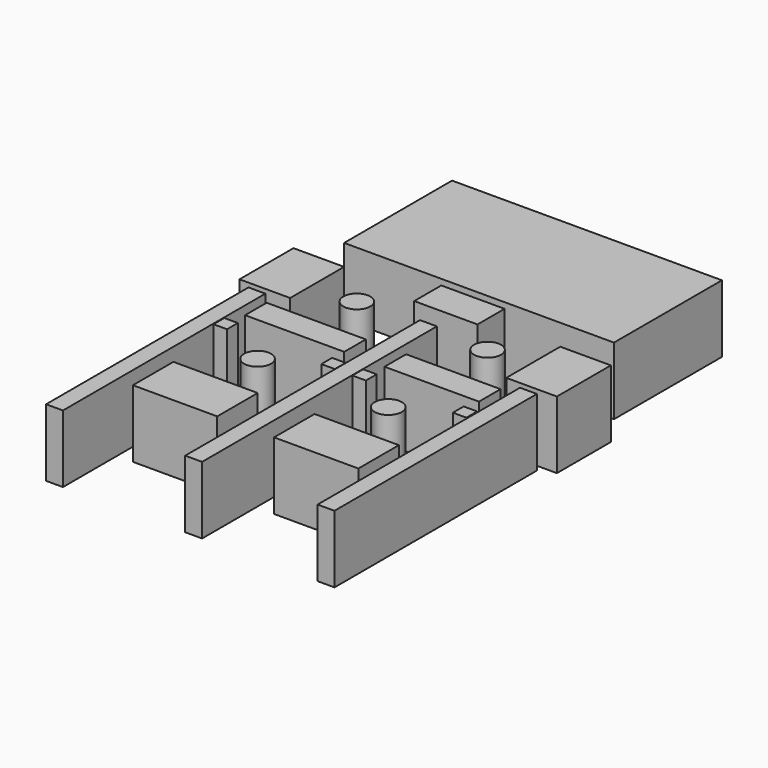
from build123d import *

# Parameters (mm, degrees)
F0_W      = 101.6
F0_H      = 50.8
F1_DEPTH  = 25.4
F2_W      = 19.06345
F2_H      = 25.4
F2_W_2    = 19.05
F3_DEPTH  = 25.4
F4_W      = 23.829037
F4_H      = 12.733073
F4_W_2    = 6.35
F4_H_2    = 85.09
F4_H_3    = 69.85
F4_W_3    = 37.338
F4_H_4    = 10.16
F4_W_4    = 35.56
F4_W_5    = 31.75
F4_H_5    = 19.05
F5_DEPTH  = 25.4
F6_W      = 5.08
F6_H      = 5.08
F7_DEPTH  = 25.4
F8_R      = 5.08
F9_DEPTH  = 25.4
F10_W     = 6.35
F10_H     = 25.4
F11_DEPTH = 25.4
F12_W     = 6.35
F12_H     = 25.4
F13_DEPTH = 25.4
F5_FACE_W = 6.35
F5_FACE_H = 25.4
F14_DEPTH = 25.4


with BuildPart() as f1:
    # F0 (on Top) → F1 (new body)
    with BuildSketch(Plane.XY):
        with Locations((50.8, 25.4)):
            Rectangle(F0_W, F0_H)
    extrude(amount=F1_DEPTH)


with BuildPart() as f3:
    # F2 (on Top) → F3 (new body)
    with BuildSketch(Plane.XY):
        with Locations((0, -24.606252)):
            Rectangle(F2_W, F2_H)
        with Locations((100.423648, -24.606252)):
            Rectangle(F2_W_2, F2_H)
    extrude(amount=F3_DEPTH)


with BuildPart() as f5:
    # F4 (on Top) → F5 (new body)
    with BuildSketch(Plane.XY):
        with Locations((51.144479, -9.677504)):
            Rectangle(F4_W, F4_H)
        with Locations((51.31811, -66.996174)):
            Rectangle(F4_W_2, F4_H_2)
        with Locations((101.158992, -74.616174)):
            Rectangle(F4_W_2, F4_H_3)
        with Locations((-1.069389, -74.616174)):
            Rectangle(F4_W_2, F4_H_3)
        with Locations((24.689177, -49.056164)):
            Rectangle(F4_W_3, F4_H_4)
        with Locations((76.310364, -49.056164)):
            Rectangle(F4_W_4, F4_H_4)
        with Locations((23.995585, -100.016174)):
            Rectangle(F4_W_5, F4_H_5)
        with Locations((77.135894, -100.016174)):
            Rectangle(F4_W_5, F4_H_5)
    extrude(amount=F5_DEPTH)

    # F10 (on face) → F11 (join)
    with BuildSketch(Plane.XZ.offset(109.541174)):
        with Locations((51.31811, 12.7)):
            Rectangle(F10_W, F10_H)
    extrude(amount=F11_DEPTH)

    # F12 (on face) → F13 (join)
    with BuildSketch(Plane.XZ.offset(109.541174)):
        with Locations((101.158992, 12.7)):
            Rectangle(F12_W, F12_H)
    extrude(amount=F13_DEPTH)

    # F5_face (on face) → F14 (join)
    with BuildSketch(Plane(origin=(51.31811, -109.541174, 12.7), x_dir=(1, 0, 0), z_dir=(0, -1, 0))):
        with Locations((-52.387499, 0)):
            Rectangle(F5_FACE_W, F5_FACE_H)
    extrude(amount=F14_DEPTH)


with BuildPart() as f7:
    # F6 (on Top) → F7 (new body)
    with BuildSketch(Plane.XY):
        with Locations((4.934179, -61.888158)):
            Rectangle(F6_W, F6_H)
        with Locations((45.512468, -61.888158)):
            Rectangle(F6_W, F6_H)
        with Locations((57.196468, -61.888158)):
            Rectangle(F6_W, F6_H)
        with Locations((95.042468, -61.888158)):
            Rectangle(F6_W, F6_H)
    extrude(amount=F7_DEPTH)


with BuildPart() as f9:
    # F8 (on Top) → F9 (new body)
    with BuildSketch(Plane.XY):
        with Locations((26.212817, -26.782004)):
            Circle(F8_R)
        with Locations((75.421803, -26.782004)):
            Circle(F8_R)
        with Locations((75.421803, -73.491231)):
            Circle(F8_R)
        with Locations((26.212817, -73.491231)):
            Circle(F8_R)
    extrude(amount=F9_DEPTH)


solid = Compound([f1.part, f3.part, f5.part, f7.part, f9.part])
